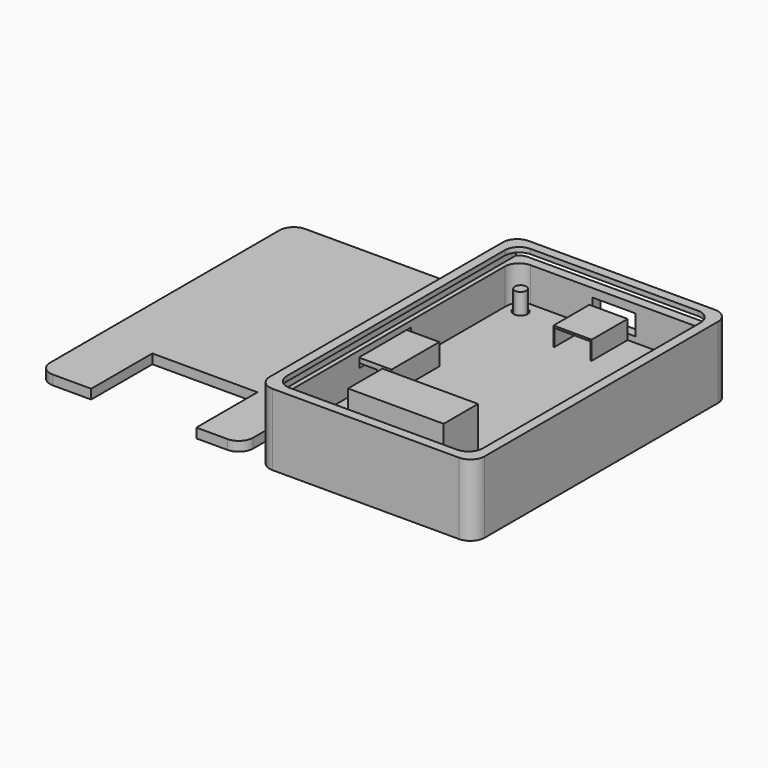
from build123d import *

# Parameters (mm, degrees)
BOX006_W          = 1
BOX006_H          = 38
BOX006_DEPTH      = 2.4
BOX005_W          = 7.6
BOX005_H          = 9.4
BOX005_DEPTH      = 3.5
BOX004_W          = 8
BOX004_H          = 9.4
BOX004_DEPTH      = 5.7
BOX003_W          = 5.3
BOX003_H          = 12.5
BOX003_DEPTH      = 6.3
BOX002_W          = 8.3
BOX002_H          = 12.5
BOX002_DEPTH      = 7.3
CYLINDER001_R     = 1.5
CYLINDER001_DEPTH = 10
CYLINDER003_R     = 1.5
CYLINDER003_DEPTH = 10
CYLINDER_R        = 1.5
CYLINDER_DEPTH    = 10
CYLINDER002_R     = 1.5
CYLINDER002_DEPTH = 10
BOX_W             = 38
BOX_H             = 60
BOX_DEPTH         = 1.8
BOX001_W          = 20
BOX001_H          = 9
BOX001_DEPTH      = 11.19
FILLET_R          = 3
FILLET001_R       = 3
FILLET002_R       = 3
FILLET003_R       = 3
BOX012_W          = 3
BOX012_H          = 39
BOX012_DEPTH      = 3.4
BOX011_W          = 22
BOX011_H          = 17
BOX011_DEPTH      = 3
BOX010_W          = 42.5
BOX010_H          = 66
BOX010_DEPTH      = 2
FILLET009_R       = 3
FILLET010_R       = 3
BOX009_W          = 43
BOX009_H          = 70
BOX009_DEPTH      = 2
FILLET007_R       = 3
FILLET008_R       = 3
CYLINDER008_R     = 2.5
CYLINDER008_DEPTH = 3.3
CYLINDER007_R     = 1.2
CYLINDER007_DEPTH = 10
CYLINDER011_R     = 2.5
CYLINDER011_DEPTH = 3.3
CYLINDER005_R     = 1.2
CYLINDER005_DEPTH = 10
CYLINDER010_R     = 2.5
CYLINDER010_DEPTH = 3.3
CYLINDER004_R     = 1.2
CYLINDER004_DEPTH = 10
CYLINDER006_R     = 1.2
CYLINDER006_DEPTH = 10
CYLINDER009_R     = 2.5
CYLINDER009_DEPTH = 3.3
BOX014_W          = 9
BOX014_H          = 10
BOX014_DEPTH      = 4.25
BOX013_W          = 4
BOX013_H          = 13.5
BOX013_DEPTH      = 2
BOX008_W          = 41
BOX008_H          = 63
BOX008_DEPTH      = 13
BOX007_W          = 45
BOX007_H          = 67
BOX007_DEPTH      = 15
FILLET004_R       = 3
FILLET005_R       = 3
FILLET006_R       = 3


with BuildPart() as leds:
    # Box006 → Box006 (new body)
    with BuildSketch(Plane(origin=(34, 13.53, 0), x_dir=(1, 0, 0), z_dir=(0, 0, 1))):
        with Locations((0.5, 19)):
            Rectangle(BOX006_W, BOX006_H)
    extrude(amount=BOX006_DEPTH)


with BuildPart() as cubo003:
    # Box005 → Box005 (new body)
    with BuildSketch(Plane(origin=(15.2, 50.6, 1.8), x_dir=(1, 0, 0), z_dir=(0, 0, 1))):
        with Locations((3.8, 4.7)):
            Rectangle(BOX005_W, BOX005_H)
    extrude(amount=BOX005_DEPTH)


with BuildPart() as cut005:
    # Box004 → Box004 (new body)
    with BuildSketch(Plane(origin=(15, 50.6, 0), x_dir=(1, 0, 0), z_dir=(0, 0, 1))):
        with Locations((4, 4.7)):
            Rectangle(BOX004_W, BOX004_H)
    extrude(amount=BOX004_DEPTH)

    # Cut005: cut Cubo003
    add(cubo003.part, mode=Mode.SUBTRACT)


with BuildPart() as cubo001:
    # Box003 → Box003 (new body)
    with BuildSketch(Plane(origin=(-3.5, 21, -1), x_dir=(1, 0, 0), z_dir=(0, 0, 1))):
        with Locations((2.65, 6.25)):
            Rectangle(BOX003_W, BOX003_H)
    extrude(amount=BOX003_DEPTH)


with BuildPart() as conector001:
    # Box002 → Box002 (new body)
    with BuildSketch(Plane(origin=(-3.5, 21, -1), x_dir=(1, 0, 0), z_dir=(0, 0, 1))):
        with Locations((4.15, 6.25)):
            Rectangle(BOX002_W, BOX002_H)
    extrude(amount=BOX002_DEPTH)

    # Cut004: cut Cubo001
    add(cubo001.part, mode=Mode.SUBTRACT)


with BuildPart() as cylinder001:
    # Cylinder001 → Cylinder001 (new body)
    with BuildSketch(Plane(origin=(35, 3, 0), x_dir=(1, 0, 0), z_dir=(0, 0, 1))):
        Circle(CYLINDER001_R)
    extrude(amount=CYLINDER001_DEPTH)


with BuildPart() as cylinder003:
    # Cylinder003 → Cylinder003 (new body)
    with BuildSketch(Plane(origin=(35, 57, 0), x_dir=(1, 0, 0), z_dir=(0, 0, 1))):
        Circle(CYLINDER003_R)
    extrude(amount=CYLINDER003_DEPTH)


with BuildPart() as cylinder:
    # Cylinder → Cylinder (new body)
    with BuildSketch(Plane(origin=(3, 3, 0), x_dir=(1, 0, 0), z_dir=(0, 0, 1))):
        Circle(CYLINDER_R)
    extrude(amount=CYLINDER_DEPTH)


with BuildPart() as cylinder002:
    # Cylinder002 → Cylinder002 (new body)
    with BuildSketch(Plane(origin=(3, 57, 0), x_dir=(1, 0, 0), z_dir=(0, 0, 1))):
        Circle(CYLINDER002_R)
    extrude(amount=CYLINDER002_DEPTH)


with BuildPart() as placa:
    # Box → Box (new body)
    with BuildSketch(Plane.XY):
        with Locations((19, 30)):
            Rectangle(BOX_W, BOX_H)
    extrude(amount=BOX_DEPTH)


with BuildPart() as fusion003:
    # Box001 → Box001 (new body)
    with BuildSketch(Plane(origin=(9.3, 4, 0), x_dir=(1, 0, 0), z_dir=(0, 0, 1))):
        with Locations((10, 4.5)):
            Rectangle(BOX001_W, BOX001_H)
    extrude(amount=BOX001_DEPTH)

    # Fusion: union Placa
    add(placa.part)

    # Cut: cut Cylinder002
    add(cylinder002.part, mode=Mode.SUBTRACT)

    # Cut001: cut Cylinder
    add(cylinder.part, mode=Mode.SUBTRACT)

    # Cut002: cut Cylinder003
    add(cylinder003.part, mode=Mode.SUBTRACT)

    # Cut003: cut Cylinder001
    add(cylinder001.part, mode=Mode.SUBTRACT)

    # Fillet
    fillet_edges = [fusion003.edges().sort_by_distance(p)[0] for p in [
        (0, 0, 0.9),
    ]]
    fillet(fillet_edges, radius=FILLET_R)

    # Fillet001
    fillet001_edges = [fusion003.edges().sort_by_distance(p)[0] for p in [
        (38, 0, 0.9),
    ]]
    fillet(fillet001_edges, radius=FILLET001_R)

    # Fillet002
    fillet002_edges = [fusion003.edges().sort_by_distance(p)[0] for p in [
        (38, 60, 0.9),
    ]]
    fillet(fillet002_edges, radius=FILLET002_R)

    # Fillet003
    fillet003_edges = [fusion003.edges().sort_by_distance(p)[0] for p in [
        (0, 60, 0.9),
    ]]
    fillet(fillet003_edges, radius=FILLET003_R)

    # Fusion001: union Conector001
    add(conector001.part)

    # Fusion002: union Cut005
    add(cut005.part)

    # Fusion003: union Leds
    add(leds.part)


with BuildPart() as fusion003_1:
    # Fusion003 placement: moved
    add(fusion003.part.moved(Location((3.5, 3.5, 4))))


with BuildPart() as leds001:
    # Box012 → Box012 (new body)
    with BuildSketch(Plane(origin=(37, 16.53, 10), x_dir=(1, 0, 0), z_dir=(0, 0, 1))):
        with Locations((1.5, 19.5)):
            Rectangle(BOX012_W, BOX012_H)
    extrude(amount=BOX012_DEPTH)


with BuildPart() as cubo008:
    # Box011 → Box011 (new body)
    with BuildSketch(Plane(origin=(12, 0, 10.5), x_dir=(1, 0, 0), z_dir=(0, 0, 1))):
        with Locations((11, 8.5)):
            Rectangle(BOX011_W, BOX011_H)
    extrude(amount=BOX011_DEPTH)


with BuildPart() as cut008:
    # Box010 → Box010 (new body)
    with BuildSketch(Plane(origin=(1, 1, 21), x_dir=(1, 0, 0), z_dir=(0, 0, 1))):
        with Locations((21.25, 33)):
            Rectangle(BOX010_W, BOX010_H)
    extrude(amount=BOX010_DEPTH)

    # Fillet009
    fillet009_edges = [cut008.edges().sort_by_distance(p)[0] for p in [
        (1, 1, 22),
        (43.5, 1, 22),
        (43.5, 67, 22),
    ]]
    fillet(fillet009_edges, radius=FILLET009_R)

    # Fillet010
    fillet010_edges = [cut008.edges().sort_by_distance(p)[0] for p in [
        (1, 67, 22),
    ]]
    fillet(fillet010_edges, radius=FILLET010_R)


with BuildPart() as cut008_1:
    # Fillet010 placement: moved
    add(cut008.part.moved(Location((0, 0, -10))))

    # Cut007: cut Cubo008
    add(cubo008.part, mode=Mode.SUBTRACT)

    # Cut008: cut Leds001
    add(leds001.part, mode=Mode.SUBTRACT)


with BuildPart() as cut008_2:
    # Cut008 placement: moved
    add(cut008_1.part.moved(Location((-47.75, 0, -11))))


with BuildPart() as fillet008:
    # Box009 → Box009 (new body)
    with BuildSketch(Plane(origin=(1, 0, 21), x_dir=(1, 0, 0), z_dir=(0, 0, 1))):
        with Locations((21.5, 35)):
            Rectangle(BOX009_W, BOX009_H)
    extrude(amount=BOX009_DEPTH)

    # Fillet007
    fillet007_edges = [fillet008.edges().sort_by_distance(p)[0] for p in [
        (1, 0, 22),
        (44, 0, 22),
        (44, 70, 22),
    ]]
    fillet(fillet007_edges, radius=FILLET007_R)

    # Fillet008
    fillet008_edges = [fillet008.edges().sort_by_distance(p)[0] for p in [
        (1, 70, 22),
    ]]
    fillet(fillet008_edges, radius=FILLET008_R)


with BuildPart() as fillet008_1:
    # Fillet008 placement: moved
    add(fillet008.part.moved(Location((0, 1, -9))))


with BuildPart() as cilindro004:
    # Cylinder008 → Cylinder008 (new body)
    with BuildSketch(Plane(origin=(38.5, 60.5, 1), x_dir=(1, 0, 0), z_dir=(0, 0, 1))):
        Circle(CYLINDER008_R)
    extrude(amount=CYLINDER008_DEPTH)


with BuildPart() as cilindro003:
    # Cylinder007 → Cylinder007 (new body)
    with BuildSketch(Plane(origin=(38.5, 60.5, 0), x_dir=(1, 0, 0), z_dir=(0, 0, 1))):
        Circle(CYLINDER007_R)
    extrude(amount=CYLINDER007_DEPTH)


with BuildPart() as cilindro007:
    # Cylinder011 → Cylinder011 (new body)
    with BuildSketch(Plane(origin=(38.5, 6.5, 1), x_dir=(1, 0, 0), z_dir=(0, 0, 1))):
        Circle(CYLINDER011_R)
    extrude(amount=CYLINDER011_DEPTH)


with BuildPart() as cilindro001:
    # Cylinder005 → Cylinder005 (new body)
    with BuildSketch(Plane(origin=(38.5, 6.5, 0), x_dir=(1, 0, 0), z_dir=(0, 0, 1))):
        Circle(CYLINDER005_R)
    extrude(amount=CYLINDER005_DEPTH)


with BuildPart() as cilindro006:
    # Cylinder010 → Cylinder010 (new body)
    with BuildSketch(Plane(origin=(6.5, 6.5, 1), x_dir=(1, 0, 0), z_dir=(0, 0, 1))):
        Circle(CYLINDER010_R)
    extrude(amount=CYLINDER010_DEPTH)


with BuildPart() as cilindro:
    # Cylinder004 → Cylinder004 (new body)
    with BuildSketch(Plane(origin=(6.5, 6.5, 0), x_dir=(1, 0, 0), z_dir=(0, 0, 1))):
        Circle(CYLINDER004_R)
    extrude(amount=CYLINDER004_DEPTH)


with BuildPart() as cilindro002:
    # Cylinder006 → Cylinder006 (new body)
    with BuildSketch(Plane(origin=(6.5, 60.5, 0), x_dir=(1, 0, 0), z_dir=(0, 0, 1))):
        Circle(CYLINDER006_R)
    extrude(amount=CYLINDER006_DEPTH)


with BuildPart() as cilindro005:
    # Cylinder009 → Cylinder009 (new body)
    with BuildSketch(Plane(origin=(6.5, 60.5, 1), x_dir=(1, 0, 0), z_dir=(0, 0, 1))):
        Circle(CYLINDER009_R)
    extrude(amount=CYLINDER009_DEPTH)


with BuildPart() as cubo010:
    # Box014 → Box014 (new body)
    with BuildSketch(Plane(origin=(18, 59, 6), x_dir=(1, 0, 0), z_dir=(0, 0, 1))):
        with Locations((4.5, 5)):
            Rectangle(BOX014_W, BOX014_H)
    extrude(amount=BOX014_DEPTH)


with BuildPart() as cubo009:
    # Box013 → Box013 (new body)
    with BuildSketch(Plane(origin=(0, 24, 8.75), x_dir=(1, 0, 0), z_dir=(0, 0, 1))):
        with Locations((2, 6.75)):
            Rectangle(BOX013_W, BOX013_H)
    extrude(amount=BOX013_DEPTH)


with BuildPart() as cubo005:
    # Box008 → Box008 (new body)
    with BuildSketch(Plane(origin=(2, 2, 2), x_dir=(1, 0, 0), z_dir=(0, 0, 1))):
        with Locations((20.5, 31.5)):
            Rectangle(BOX008_W, BOX008_H)
    extrude(amount=BOX008_DEPTH)


with BuildPart() as cut011:
    # Box007 → Box007 (new body)
    with BuildSketch(Plane.XY):
        with Locations((22.5, 33.5)):
            Rectangle(BOX007_W, BOX007_H)
    extrude(amount=BOX007_DEPTH)

    # Cut006: cut Cubo005
    add(cubo005.part, mode=Mode.SUBTRACT)

    # Fillet004
    fillet004_edges = [cut011.edges().sort_by_distance(p)[0] for p in [
        (45, 0, 7.5),
    ]]
    fillet(fillet004_edges, radius=FILLET004_R)

    # Fillet005
    fillet005_edges = [cut011.edges().sort_by_distance(p)[0] for p in [
        (43, 2, 8.5),
    ]]
    fillet(fillet005_edges, radius=FILLET005_R)

    # Fillet006
    fillet006_edges = [cut011.edges().sort_by_distance(p)[0] for p in [
        (2, 2, 8.5),
        (2, 65, 8.5),
        (43, 65, 8.5),
        (0, 0, 7.5),
        (0, 67, 7.5),
        (45, 67, 7.5),
    ]]
    fillet(fillet006_edges, radius=FILLET006_R)

    # Cut009: cut Cubo009
    add(cubo009.part, mode=Mode.SUBTRACT)

    # Cut010: cut Cubo010
    add(cubo010.part, mode=Mode.SUBTRACT)

    # Fusion004: union Cilindro004, Cilindro003, Cilindro007, Cilindro001, Cilindro006, Cilindro, Cilindro002, Cilindro005
    add(cilindro004.part)
    add(cilindro003.part)
    add(cilindro007.part)
    add(cilindro001.part)
    add(cilindro006.part)
    add(cilindro.part)
    add(cilindro002.part)
    add(cilindro005.part)

    # Cut011: cut Fillet008
    add(fillet008_1.part, mode=Mode.SUBTRACT)


solid = Compound([fusion003_1.part, cut008_2.part, cut011.part])
